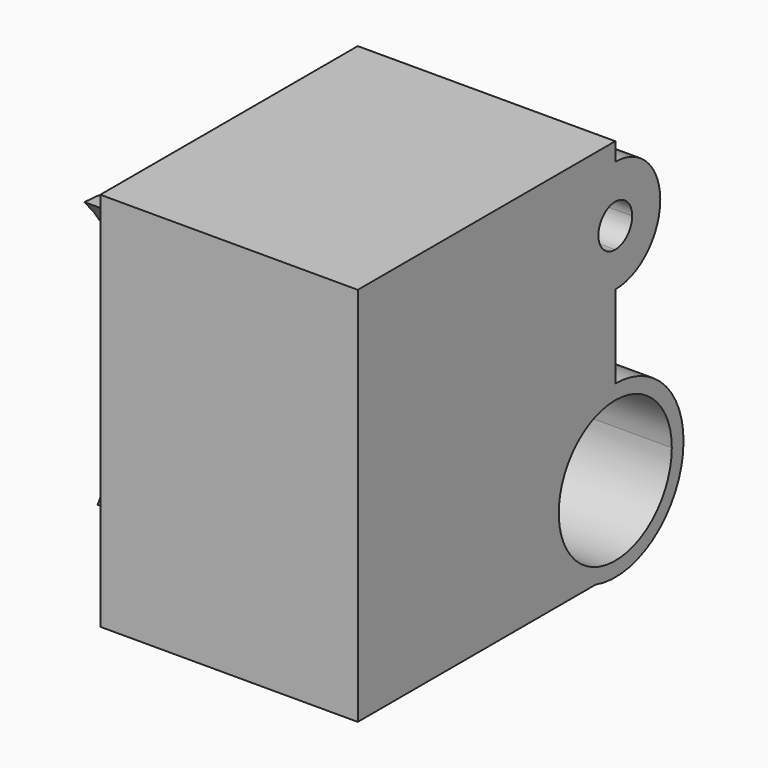
from build123d import *

# Parameters (mm, degrees)
F1_DEPTH = 111.76
F4_DEPTH = 25.4


with BuildPart() as f1:
    # F0 (on Right) → F1 (new body)
    with BuildSketch(Plane.YZ):
        with BuildLine():
            ThreePointArc((59.190566269, -82.55), (33.2201620113, -41.7067588395), (69.85, -10.0699572513))
            Line((69.85, -10.0699572513), (69.85, 25.8675002325))
            ThreePointArc((69.85, 25.8675002325), (45.4456650544, 50.2718351781), (69.85, 74.6761701237))
            Line((69.85, 74.6761701237), (69.85, 82.55))
            Line((69.85, 82.55), (-69.85, 82.55))
            Line((-69.85, 82.55), (-69.85, -82.55))
            Line((-69.85, -82.55), (59.190566269, -82.55))
        make_face()
        with BuildLine():
            ThreePointArc((59.190566269, -82.55), (91.9419900175, -76.8042285794), (106.8738476743, -47.0938049257))
            ThreePointArc((106.8738476743, -47.0938049257), (96.0298137561, -20.9139911695), (69.85, -10.0699572513))
            Line((69.85, -10.0699572513), (69.85, -16.4199572513))
            ThreePointArc((69.85, -16.4199572513), (91.5396856956, -25.4041192301), (100.5238476743, -47.0938049257))
            ThreePointArc((100.5238476743, -47.0938049257), (91.5396856956, -68.7834906213), (69.85, -77.7676526))
            Line((69.85, -77.7676526), (69.85, -82.55))
            Line((69.85, -82.55), (59.190566269, -82.55))
        make_face()
        with BuildLine():
            Line((69.85, 41.1074995935), (69.85, 25.8675002325))
            ThreePointArc((69.85, 25.8675002325), (87.1064707304, 33.0153644477), (94.2543349456, 50.2718351781))
            ThreePointArc((94.2543349456, 50.2718351781), (87.1064707304, 67.5283059085), (69.85, 74.6761701237))
            Line((69.85, 74.6761701237), (69.85, 59.4361707628))
            ThreePointArc((69.85, 59.4361707628), (76.330163837, 56.7519990151), (79.0143355846, 50.2718351781))
            ThreePointArc((79.0143355846, 50.2718351781), (76.330163837, 43.7916713412), (69.85, 41.1074995935))
        make_face()
        with BuildLine():
            Line((69.85, -16.4199572513), (69.85, -10.0699572513))
            ThreePointArc((69.85, -10.0699572513), (33.2201620113, -41.7067588395), (59.190566269, -82.55))
            Line((59.190566269, -82.55), (69.85, -82.55))
            Line((69.85, -82.55), (69.85, -77.7676526))
            ThreePointArc((69.85, -77.7676526), (39.1761523257, -47.0938049257), (69.85, -16.4199572513))
        make_face()
        with BuildLine():
            ThreePointArc((69.85, 74.6761701237), (45.4456650544, 50.2718351781), (69.85, 25.8675002325))
            Line((69.85, 25.8675002325), (69.85, 41.1074995935))
            ThreePointArc((69.85, 41.1074995935), (60.6856644154, 50.2718351781), (69.85, 59.4361707628))
            Line((69.85, 59.4361707628), (69.85, 74.6761701237))
        make_face()
    extrude(amount=F1_DEPTH)

    # F3 (on face) → F4 (join)
    with BuildSketch(Plane(origin=(0, 0, 0), x_dir=(0, -1, 0), z_dir=(-1, 0, 0))):
        with BuildLine():
            ThreePointArc((39.5199386348, -56.4979792395), (21.8193266657, 4.0562435302), (46.667368415, 62.045038832))
            ThreePointArc((46.667368415, 62.045038832), (-12.2964336182, 6.1132183314), (39.5199386348, -56.4979792395))
        make_face()
        with BuildLine():
            ThreePointArc((25.8455574512, -46.1958609521), (-5.9579445218, 5.7310456276), (31.8542383611, 53.4605458379))
            ThreePointArc((31.8542383611, 53.4605458379), (15.4808375694, 4.438416234), (25.8455574512, -46.1958609521))
        make_face(mode=Mode.SUBTRACT)
    extrude(amount=F4_DEPTH)


solid = f1.part
